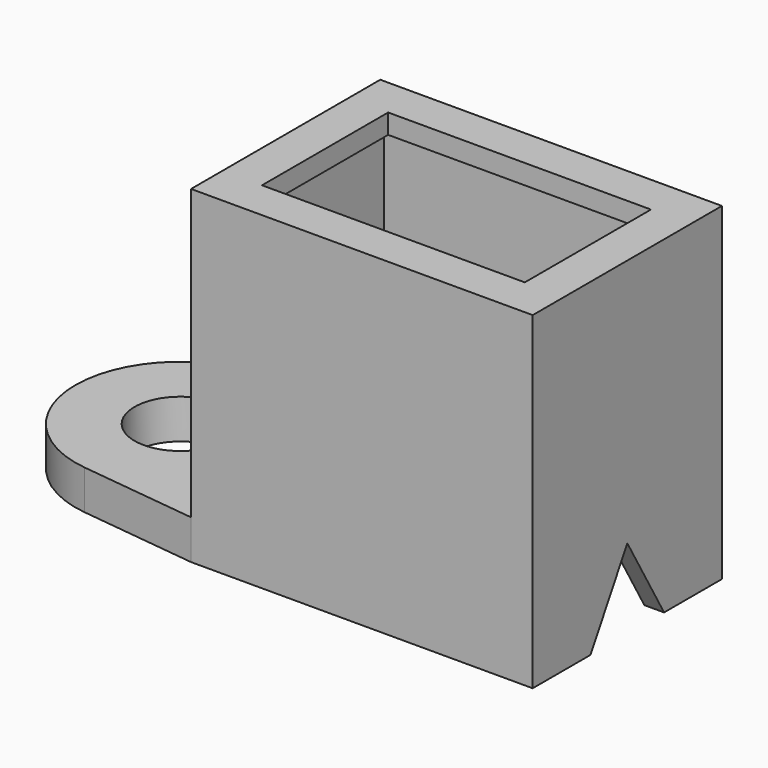
from build123d import *

# Parameters (mm, degrees)
PAD_DEPTH       = 3
SKETCH001_W     = 26
SKETCH001_H     = 18
PAD001_DEPTH    = 22
SKETCH002_W     = 23
SKETCH002_H     = 15
POCKET_DEPTH    = 23.5
SKETCH003_W     = 20
SKETCH003_H     = 12
POCKET001_DEPTH = 1.501
SKETCH004_R     = 3.5
POCKET002_DEPTH = 25.001
POCKET003_DEPTH = 1.5


with BuildPart() as part:
    # Sketch → Pad (new body)
    with BuildSketch(Plane.XY):
        with BuildLine():
            Line((0, 0), (26, 0))
            Line((26, 0), (26, 18))
            Line((26, 18), (0, 18))
            Line((0, 18), (-8.937931, 16.944828))
            ThreePointArc((-8.937931, 16.944828), (-16, 9), (-8.937931, 1.055172))
            Line((-8.937931, 1.055172), (0, 0))
        make_face()
    extrude(amount=PAD_DEPTH)

    # Sketch001 (on Face8 of Pad) → Pad001 (join)
    with BuildSketch(Plane.XY.offset(3)):
        with Locations((13, 9)):
            Rectangle(SKETCH001_W, SKETCH001_H)
    extrude(amount=PAD001_DEPTH)

    # Sketch002 (on Face2 of Pad001) → Pocket (cut)
    with BuildSketch(Plane(origin=(0, 0, 0), x_dir=(1, 0, 0), z_dir=(0, 0, -1))):
        with Locations((13, -9)):
            Rectangle(SKETCH002_W, SKETCH002_H)
    extrude(amount=-POCKET_DEPTH, mode=Mode.SUBTRACT)

    # Sketch003 (on Face15 of Pocket) → Pocket001 (cut, through all)
    with BuildSketch(Plane(origin=(0, 0, 23.5), x_dir=(1, 0, 0), z_dir=(0, 0, -1))):
        with Locations((13, -9)):
            Rectangle(SKETCH003_W, SKETCH003_H)
    extrude(amount=-POCKET001_DEPTH, mode=Mode.SUBTRACT)

    # Sketch004 (on Face4 of Pocket001) → Pocket002 (cut, through all)
    with BuildSketch(Plane(origin=(0, 0, 0), x_dir=(1, 0, 0), z_dir=(0, 0, -1))):
        with Locations((-8, -9)):
            Circle(SKETCH004_R)
    extrude(amount=-POCKET002_DEPTH, mode=Mode.SUBTRACT)

    # Sketch005 (on Face7 of Pocket002) → Pocket003 (cut)
    with BuildSketch(Plane.YZ.offset(26)):
        Polygon((12.5, 0), (9, 6.062178), (5.5, 0), align=None)
    extrude(amount=-POCKET003_DEPTH, mode=Mode.SUBTRACT)


solid = part.part
